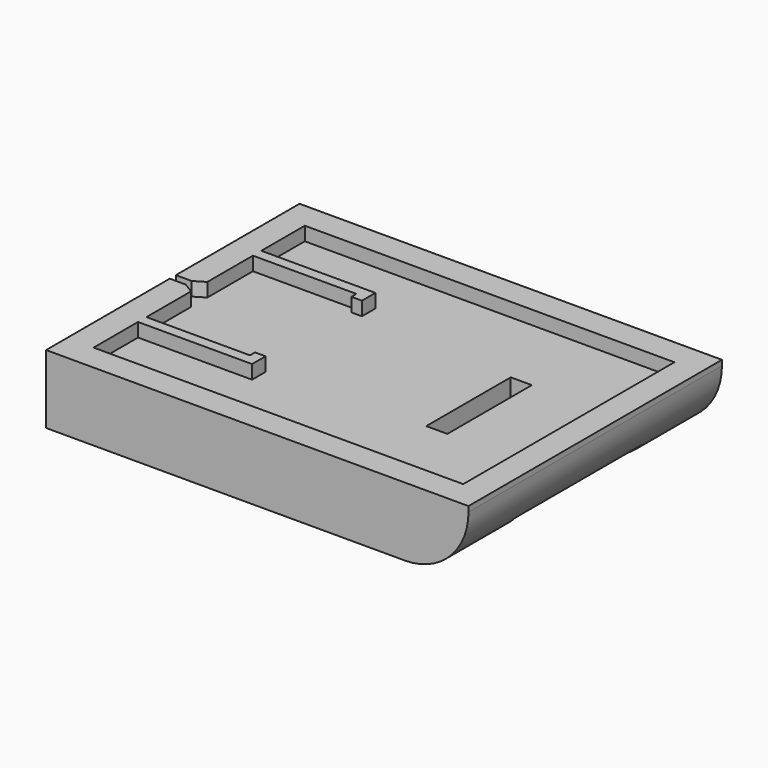
from build123d import *

# Parameters (mm, degrees)
F1_DEPTH = 75
F2_W     = 10
F2_H     = 12.5
F3_DEPTH = 6.5
F4_DEPTH = 9000
F5_W     = 30
F5_H     = 75
F5_W_2   = 10
F5_H_2   = 50
F6_DEPTH = 10


with BuildPart() as f1:
    # F0 (on Front) → F1 (new body, symmetric)
    with BuildSketch(Plane.XZ):
        with BuildLine():
            Line((100, 13.75), (100, 16.25))
            Line((100, 16.25), (-100, 16.25))
            Line((-100, 16.25), (-100, -16.25))
            Line((-100, -16.25), (70, -16.25))
            ThreePointArc((70, -16.25), (91.2132034356, -7.4632034356), (100, 13.75))
        make_face()
    extrude(amount=F1_DEPTH, both=True)

    # F2 (on face) → F3 (cut)
    with BuildSketch(Plane.XY.offset(16.25)):
        Polygon((87.5, -62.5), (87.5, 62.5), (-87.5, 62.5), (-87.5, 36.7867040902), (-41, 36.7867040902), (-33.5, 36.7867040902), (-33.5, 28.7867040902), (-38.5, 28.7867040902), (-38.5, 31.7867040902), (-46, 31.7867040902), (-87.5, 31.7867040902), (-87.5, 4.8), (-92.5, 1.8), (-100, 1.8), (-100, -1.8), (-92.5, -1.8), (-87.5, -4.8), (-87.5, -31.2132959098), (-38.5, -31.2132959098), (-38.5, -28.2132959098), (-33.5, -28.2132959098), (-33.5, -36.2132959098), (-41, -36.2132959098), (-46, -36.2132959098), (-87.5, -36.2132959098), (-87.5, -62.5), (-77.5, -62.5), align=None)
        Polygon((40, -25), (40, 0), (40, 25), (40, 37.5), (50, 37.5), (50, 25), (50, -25), (50, -37.5), (40, -37.5), align=None, mode=Mode.SUBTRACT)
        with Locations((45, 31.25)):
            Rectangle(F2_W, F2_H)
        with Locations((45, -31.25)):
            Rectangle(F2_W, F2_H)
    extrude(amount=-F3_DEPTH, mode=Mode.SUBTRACT)

    # F4 (cut): a face of the model
    f4_faces = [f1.faces().sort_by_distance(p)[0] for p in [
        (45, 0, 16.25),
    ]]
    extrude(f4_faces, amount=-F4_DEPTH, mode=Mode.SUBTRACT)

    # F5 (on face) → F6 (cut)
    with BuildSketch(Plane(origin=(0, 0, -16.25), x_dir=(1, 0, 0), z_dir=(0, 0, -1))):
        with Locations((85, 0)):
            Rectangle(F5_W, F5_H)
        Polygon((30, 37.5), (30, 0), (30, -37.5), (70, -37.5), (70, 37.5), align=None)
        with Locations((45, 0)):
            Rectangle(F5_W_2, F5_H_2, mode=Mode.SUBTRACT)
    extrude(amount=-F6_DEPTH, mode=Mode.SUBTRACT)


solid = f1.part
